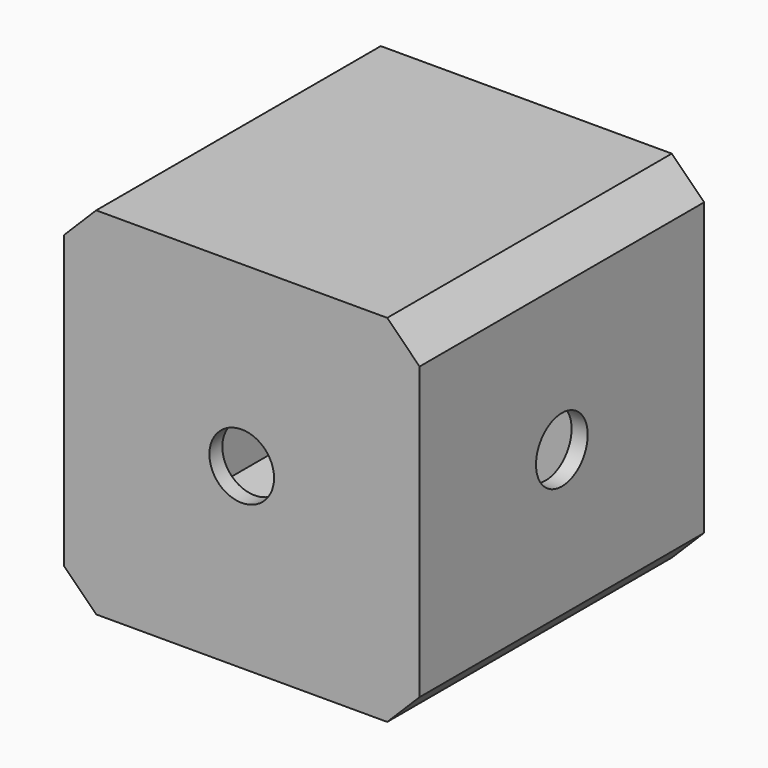
from build123d import *

# Parameters (mm, degrees)
F0_W      = 55
F0_H      = 55
F1_DEPTH  = 55
F2_SIZE   = 5
F5_T      = -2.5
F7_DEPTH  = 2.5
F4_R      = 5
F8_DEPTH  = 2.5
F3_R      = 5
F9_DEPTH  = 2.5
F10_R     = 7.5
F11_DEPTH = 7


with BuildPart() as f1:
    # F0 (on Front) → F1 (new body)
    with BuildSketch(Plane.XZ):
        Rectangle(F0_W, F0_H)
    extrude(amount=F1_DEPTH)

    # F2
    f2_edges = [f1.edges().sort_by_distance(p)[0] for p in [
        (27.5, -27.5, 27.5),
        (-27.5, -27.5, 27.5),
        (27.5, -27.5, -27.5),
        (-27.5, -27.5, -27.5),
    ]]
    chamfer(f2_edges, length=F2_SIZE)

    # F5
    f5_openings = [f1.faces().sort_by_distance(p)[0] for p in [
        (0, -55, 0),
    ]]
    offset(amount=F5_T, openings=f5_openings)

    # F6 (on face) → F7 (join)
    with BuildSketch(Plane.XZ.offset(55)):
        Polygon((27.5, 22.5), (22.5, 27.5), (-22.5, 27.5), (-27.5, 22.5), (-27.5, -22.5), (-22.5, -27.5), (22.5, -27.5), (27.5, -22.5), align=None)
    extrude(amount=-F7_DEPTH)

    # F4 (on face) → F8 (cut)
    with BuildSketch(Plane.YZ.offset(27.5)):
        with Locations((-27.5, 0)):
            Circle(F4_R)
    extrude(amount=-F8_DEPTH, mode=Mode.SUBTRACT)

    # F3 (on face) → F9 (cut)
    with BuildSketch(Plane.XZ.offset(55)):
        Circle(F3_R)
    extrude(amount=-F9_DEPTH, mode=Mode.SUBTRACT)

    # F10 (on face) → F11 (join)
    with BuildSketch(Plane(origin=(0, 0, 0), x_dir=(-1, 0, 0), z_dir=(0, 1, 0))):
        Circle(F10_R)
    extrude(amount=F11_DEPTH)


solid = f1.part
